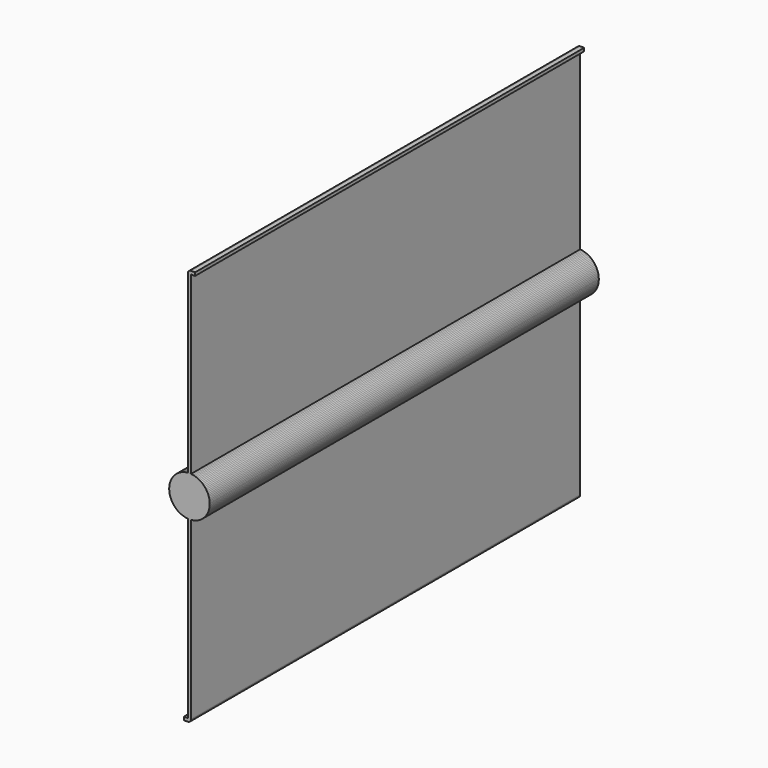
from build123d import *

# Parameters (mm, degrees)
F1_DEPTH = 152.4
F3_COUNT = 2


with BuildPart() as f1:
    # F0 (on Front) → F1 (new body, symmetric)
    with BuildSketch(Plane.XZ):
        with BuildLine():
            ThreePointArc((-0.990116282, 12.6613454952), (-8.6230946655, -9.323745942), (12.7, 0))
            ThreePointArc((12.7, 0), (9.323745942, 8.6230946655), (0.990116282, 12.6613454952))
            Line((0.990116282, 12.6613454952), (-0.990116282, 12.6613454952))
        make_face()
        with BuildLine():
            Line((-0.990116282, 12.6613454952), (0.990116282, 12.6613454952))
            ThreePointArc((0.990116282, 12.6613454952), (0, 12.7), (-0.990116282, 12.6613454952))
        make_face()
        with BuildLine():
            ThreePointArc((-0.990116282, 12.6613454952), (0, 12.7), (0.990116282, 12.6613454952))
            Line((0.990116282, 12.6613454952), (0.9992905417, 122.7104453392))
            Line((0.9992905417, 122.7104453392), (3.5300892734, 122.7104453392))
            Line((3.5300892734, 122.7104453392), (3.5300892734, 124.7115443595))
            Line((3.5300892734, 124.7115443595), (0.990116282, 124.6998310089))
            ThreePointArc((0.990116282, 124.6998310089), (-0.4106723736, 124.113921056), (-0.990116282, 122.7104453392))
            Line((-0.990116282, 122.7104453392), (-0.990116282, 12.6613454952))
        make_face()
    extrude(amount=F1_DEPTH, both=True)


with BuildPart() as f3_1:
    # F3: instance of F1
    add(f1.part.rotate(Axis((0, 34.1660641134, 0), (0, 1, 0)), 1 * 360 / F3_COUNT))


solid = Compound([f1.part, f3_1.part])
